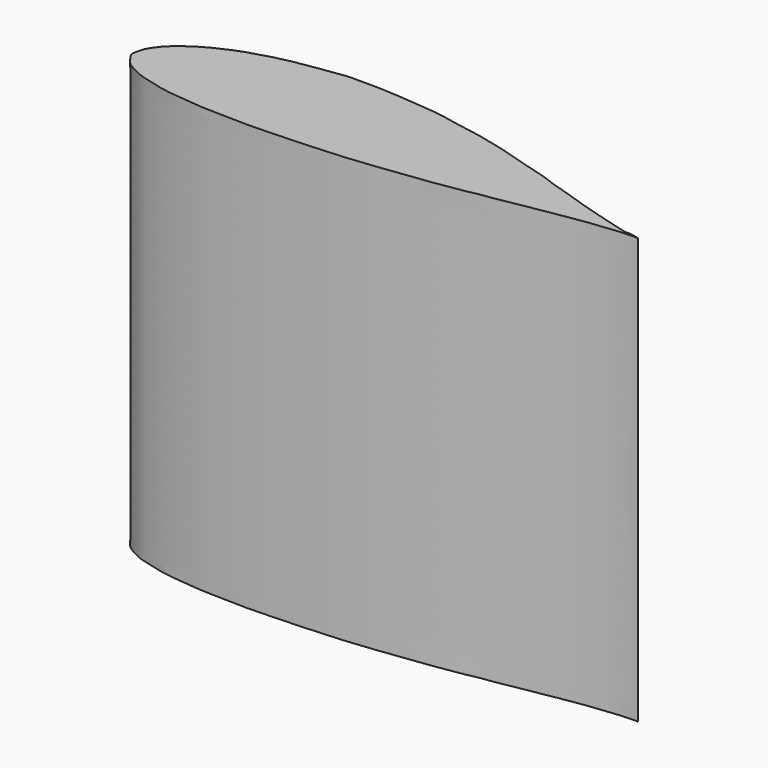
from build123d import *

# Parameters (mm, degrees)
F1_DEPTH = 25.4


with BuildPart() as f1:
    # F0 (on Top) → F1 (new body)
    with BuildSketch(Plane.XY):
        with BuildLine():
            add(Edge.make_bspline(
                [(20.008415, 0), (19.966694, 0.009488), (19.803835, 0.032018), (19.536343, -0.011923), (19.194566, 0.009793), (18.846746, -0.032745), (18.447598, -0.06286), (17.992181, -0.116141), (17.47616, -0.166084), (16.900948, -0.255004), (16.276957, -0.344881), (15.61084, -0.457443), (14.906513, -0.60255), (14.144467, -0.694528), (13.347107, -0.841516), (12.52563, -1.027565), (11.653233, -1.094326), (10.779308, -1.324474), (9.850574, -1.426356), (8.916674, -1.615606), (7.959515, -1.696717), (7.000999, -1.863687), (6.025045, -1.955625), (5.03999, -2.082171), (4.059591, -2.169891), (3.08273, -2.240247), (2.115551, -2.280185), (1.158447, -2.349449), (0.220208, -2.360407), (-0.701561, -2.420396), (-1.595486, -2.420256), (-2.466484, -2.388187), (-3.295553, -2.372049), (-4.091865, -2.371146), (-4.836348, -2.268468), (-5.554777, -2.202865), (-6.222768, -2.152209), (-6.851068, -2.034445), (-7.412349, -1.887975), (-7.936728, -1.746563), (-8.408285, -1.614054), (-8.808212, -1.416591), (-9.160957, -1.224561), (-9.459237, -1.01855), (-9.67878, -0.774726), (-9.820329, -0.510979), (-10.028602, -0.292532), (-9.996153, 0.00021), (-9.93736, 0.272706), (-9.85157, 0.569285), (-9.665665, 0.860192), (-9.457183, 1.165506), (-9.162508, 1.464886), (-8.819563, 1.77394), (-8.406604, 2.07131), (-7.950854, 2.370461), (-7.426638, 2.648646), (-6.849329, 2.905244), (-6.226444, 3.181816), (-5.550481, 3.390705), (-4.836735, 3.604542), (-4.092645, 3.795075), (-3.298204, 3.934326), (-2.4651, 4.085133), (-1.58697, 4.156926), (-0.69774, 4.35072), (0.226118, 4.293165), (1.155553, 4.328035), (2.106637, 4.24769), (3.067342, 4.206401), (4.046942, 4.090934), (5.040239, 4.013994), (6.019836, 3.762626), (7.001716, 3.635219), (7.973395, 3.43787), (8.917055, 3.222884), (9.848811, 2.961266), (10.758631, 2.689993), (11.645454, 2.400053), (12.54747, 2.218272), (13.338895, 1.847997), (14.152898, 1.656048), (14.887421, 1.377355), (15.603526, 1.163), (16.264981, 0.934778), (16.893141, 0.759678), (17.469888, 0.588644), (17.989364, 0.434768), (18.449689, 0.312567), (18.837721, 0.225454), (19.199013, 0.102132), (19.491753, 0.181275), (20.183847, -0.039897), (20.008415, 0)],
                knots=[0, 0, 0, 0, 0.126858, 0.493332, 0.800923, 1.151623, 1.541352, 2.002433, 2.526772, 3.096387, 3.748042, 4.418157, 5.122823, 5.904338, 6.719152, 7.55476, 8.428037, 9.335139, 10.256719, 11.226872, 12.190582, 13.1347, 14.143675, 15.130013, 16.11398, 17.0961, 18.067916, 19.017809, 19.974085, 20.881736, 21.787997, 22.654308, 23.496269, 24.276535, 25.039554, 25.747289, 26.441539, 27.047415, 27.661864, 28.181118, 28.678158, 29.12667, 29.514857, 29.883396, 30.20967, 30.483993, 30.78946, 31.056393, 31.310854, 31.640493, 31.969738, 32.341213, 32.748198, 33.225296, 33.725374, 34.272762, 34.859946, 35.502932, 36.168362, 36.90228, 37.622483, 38.404509, 39.204289, 40.041736, 40.942435, 41.846292, 42.753994, 43.70234, 44.636098, 45.613443, 46.586314, 47.595289, 48.595406, 49.611203, 50.562988, 51.56887, 52.514089, 53.4656, 54.417113, 55.312405, 56.213765, 57.021254, 57.813634, 58.568004, 59.263263, 59.912002, 60.524109, 61.066908, 61.540989, 61.941383, 62.292991, 62.582487, 63.115914, 63.115914, 63.115914, 63.115914], degree=3))
        make_face()
    extrude(amount=F1_DEPTH)


solid = f1.part
